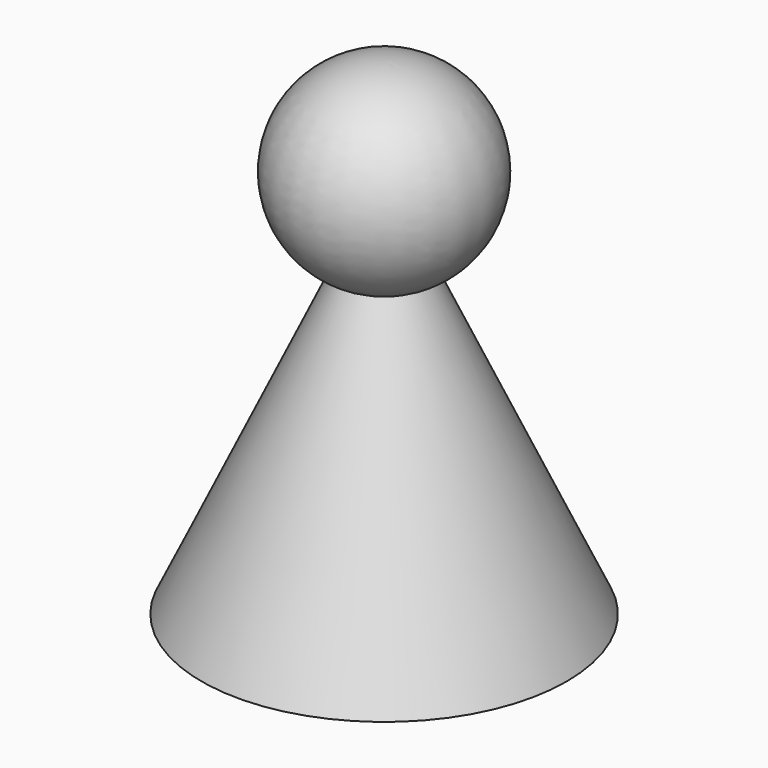
from build123d import *


with BuildPart() as part:
    # Sketch → Revolve (revolve)
    with BuildSketch(Plane.XZ):
        with BuildLine():
            Line((0, 40), (0, 0))
            Line((0, 0), (15, 0))
            Line((15, 0), (3.461793, 24.743764))
            ThreePointArc((3.461793, 24.743764), (7.896131, 33.770836), (0, 40))
        make_face()
    revolve(axis=Axis((0, 0, 0), (0, 0, 1)))


solid = part.part
